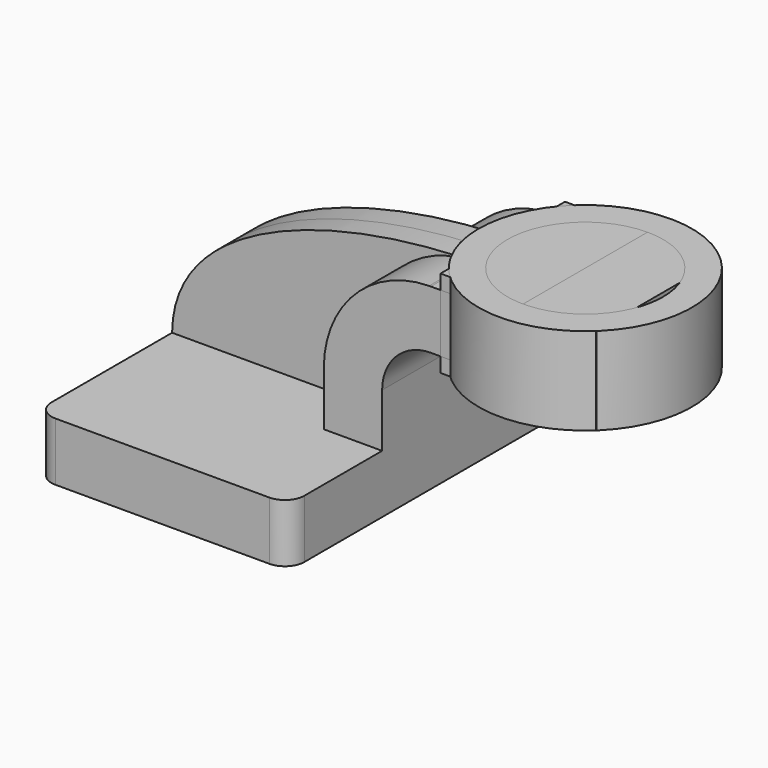
from build123d import *

# Parameters (mm, degrees)
F1_DEPTH  = 63.5
F2_DEPTH  = 7.9375
F3_DEPTH  = 25.4
F0_W      = 26.9567337507
F0_H      = 4.7498
F4_DEPTH  = 25.4
F0_H_2    = 4.7752
F5_DEPTH  = 25.4
F0_H_3    = 19.05
F6_DEPTH  = 25.4
F7_DEPTH  = 25.4
F7_FACE_W = 23.8432662493
F7_FACE_H = 28.575
F9_R      = 6.35


with BuildPart() as f1:
    # F0 (on Front) → F1 (new body, symmetric)
    with BuildSketch(Plane.XZ):
        Polygon((41.275, -9.525), (41.275, 9.525), (22.225, 9.525), (-41.275, 9.525), (-41.275, -9.525), align=None)
    extrude(amount=F1_DEPTH, both=True)

    # F0 (on Front) → F2 (join, symmetric)
    with BuildSketch(Plane.XZ):
        with BuildLine():
            Line((-41.275, 9.525), (22.225, 9.525))
            Line((22.225, 9.525), (22.225, 27.0002))
            ThreePointArc((22.225, 27.0002), (32.2687691693, 51.508973477), (56.6232807358, 61.9212279318))
            add(Edge.make_bspline(
                [(-41.275, 9.525), (-40.9449543221, 46.6319803824), (15.9898114656, 61.5524020782), (56.6232807358, 61.9212279318)],
                knots=[0, 0, 0, 0, 111.0239729905, 111.0239729905, 111.0239729905, 111.0239729905], degree=3))
        make_face()
    extrude(amount=F2_DEPTH, both=True)

    # F0 (on Front) → F3 (join, symmetric)
    with BuildSketch(Plane.XZ):
        with BuildLine():
            Line((22.225, 9.525), (41.275, 9.525))
            Line((41.275, 9.525), (41.275, 27.0002))
            ThreePointArc((41.275, 27.0002), (45.9246798487, 38.2255201513), (57.15, 42.8752))
            Line((57.15, 42.8752), (60.325, 42.8752))
            Line((60.325, 42.8752), (60.325, 61.9252))
            Line((60.325, 61.9252), (57.15, 61.9252))
            add(Edge.make_bspline(
                [(56.6232807358, 61.9212279318), (56.7991612091, 61.922824381), (56.974736268, 61.9241481973), (57.15, 61.9252)],
                knots=[111.0239729905, 111.0239729905, 111.0239729905, 111.0239729905, 111.5045361635, 111.5045361635, 111.5045361635, 111.5045361635], degree=3))
            ThreePointArc((56.6232807358, 61.9212279318), (32.2687691693, 51.508973477), (22.225, 27.0002))
            Line((22.225, 27.0002), (22.225, 9.525))
        make_face()
    extrude(amount=F3_DEPTH, both=True)

    # F9
    f9_edges = [f1.edges().sort_by_distance(p)[0] for p in [
        (41.275, -63.5, 0),
        (41.275, 63.5, 0),
        (-41.275, -63.5, 0),
        (-41.275, 63.5, 0),
    ]]
    fillet(f9_edges, radius=F9_R)


with BuildPart() as f4:
    # F0 (on Front) → F4 (new body, symmetric)
    with BuildSketch(Plane.XZ):
        with Locations((73.8033668753, 64.3001)):
            Rectangle(F0_W, F0_H)
    extrude(amount=F4_DEPTH, both=True)


with BuildPart() as f5:
    # F0 (on Front) → F5 (new body, symmetric)
    with BuildSketch(Plane.XZ):
        with Locations((73.8033668753, 40.4876)):
            Rectangle(F0_W, F0_H_2)
    extrude(amount=F5_DEPTH, both=True)


with BuildPart() as f6:
    # F0 (on Front) → F6 (new body, symmetric)
    with BuildSketch(Plane.XZ):
        with Locations((73.8033668753, 52.4002)):
            Rectangle(F0_W, F0_H_3)
    extrude(amount=F6_DEPTH, both=True)


with BuildPart() as f7:
    # F0 (on Front) → F7 (new body, symmetric)
    with BuildSketch(Plane.XZ):
        Polygon((87.2817337507, 61.9252), (87.2817337507, 42.8752), (87.2817337507, 38.1), (111.125, 38.1), (111.125, 66.675), (87.2817337507, 66.675), align=None)
    extrude(amount=F7_DEPTH, both=True)


with BuildPart() as f8:
    # F7_face (on face) → F8 (revolve)
    with BuildSketch(Plane(origin=(99.2033668753, 25.4, 52.3875), x_dir=(1, 0, 0), z_dir=(0, 1, 0))):
        Rectangle(F7_FACE_W, F7_FACE_H)
    revolve(axis=Axis((87.2817337507, 0, 52.3875), (0, 0, -1)))


solid = Compound([f1.part, f4.part, f5.part, f6.part, f7.part, f8.part])
